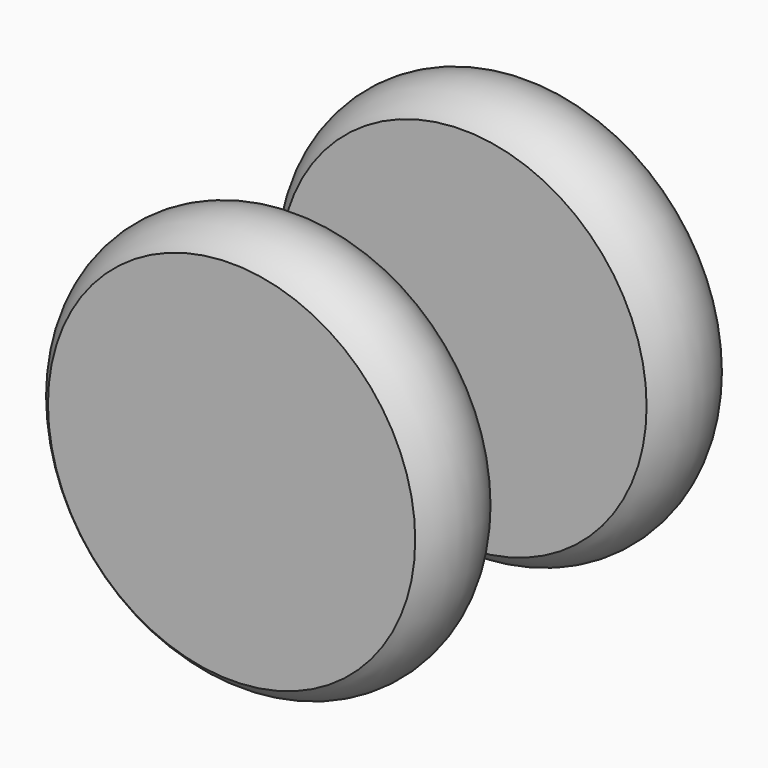
from build123d import *

# Parameters (mm, degrees)
F0_W = 50.8
F0_H = 25.4


with BuildPart() as f1:
    # F0 (on Top) → F1 (revolve)
    with BuildSketch(Plane.XY):
        with Locations((25.4, -12.7)):
            Rectangle(F0_W, F0_H)
        with BuildLine():
            Line((0, -25.4), (0, 0))
            ThreePointArc((0, 0), (-6.122738, -12.7), (0, -25.4))
        make_face()
    revolve(axis=Axis((50.8, -12.7, 0), (0, -1, 0)))


with BuildPart() as f2_1:
    # F2: copy of F1
    add(f1.part.moved(Location((0, 80.01, 0))))


solid = Compound([f1.part, f2_1.part])
